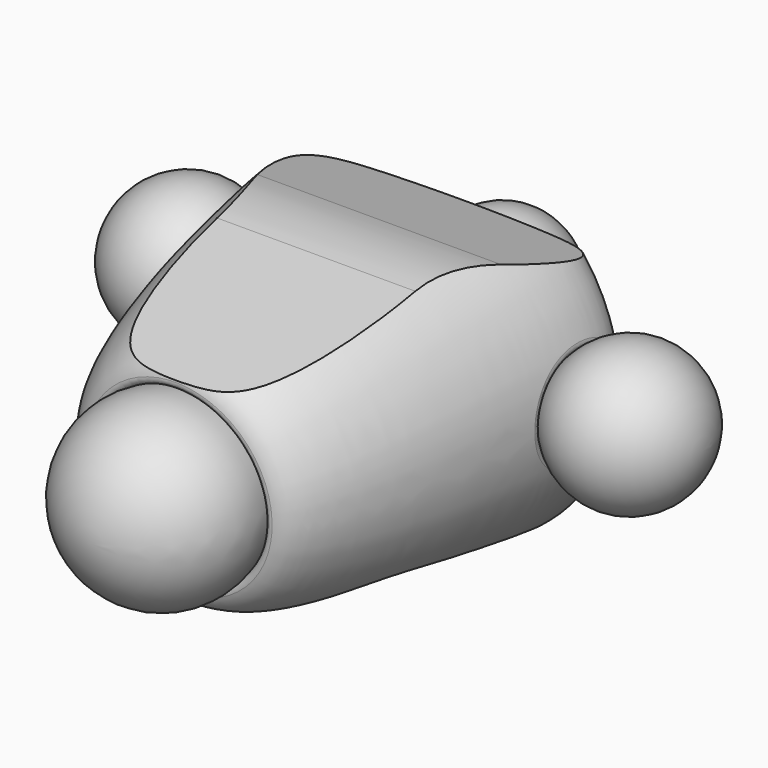
from build123d import *

# Parameters (mm, degrees)
POCKET019_DEPTH         = 147.626796
POCKET019_DEPTH_BACK    = 147.626796
POCKET020_DEPTH         = 147.626796
POCKET020_DEPTH_BACK    = 147.626796
FILLET055_R             = 6
FILLET056_R             = 5
FILLET057_R             = 6
BODY035_PLACEMENT_ANGLE = 2


with BuildPart() as part:
    # Sketch112 → Revolution059 (revolve)
    with BuildSketch(Plane.XY):
        with BuildLine():
            Line((0, 322.018671), (0, 20.371941))
            add(Edge.make_bspline(
                [(0, 322.018671), (53.473918, 322.018671), (104.21536, 317.88647), (156.119411, 306.973022), (140.608635, 195.423989), (125.577646, 106.793844), (90.432373, -0.681763), (55.785058, 20.371941), (0, 20.371941)],
                knots=[0, 0, 0, 0, 0.166667, 0.333333, 0.5, 0.666667, 0.833333, 1, 1, 1, 1], degree=3))
        make_face()
    revolve(axis=Axis((0, 0, 0), (0, 1, 0)))

    # Sketch115 → Pocket019 (cut, two sides)
    with BuildSketch(Plane.YZ) as pocket019_sk:
        with BuildLine():
            Line((0, 76.057571), (164.705364, 107.040153))
            ThreePointArc((230.198439, 103.73248), (197.648298, 109.275045), (164.705364, 107.040153))
            Line((230.198439, 103.73248), (327.121262, 75.140715))
            Line((327.121262, 75.140715), (327.121262, 181.80545))
            Line((327.121262, 181.80545), (0, 181.80545))
            Line((0, 181.80545), (0, 76.057571))
        make_face()
    extrude(amount=-POCKET019_DEPTH, mode=Mode.SUBTRACT)
    extrude(pocket019_sk.sketch, amount=POCKET019_DEPTH_BACK, mode=Mode.SUBTRACT)

    # Sketch116 → Pocket020 (cut, two sides)
    with BuildSketch(Plane.YZ) as pocket020_sk:
        with BuildLine():
            Line((0, -87.995972), (81.156579, -77.887981))
            ThreePointArc((139.258653, -78.991287), (110.247098, -76.360428), (81.156579, -77.887981))
            Line((139.258653, -78.991287), (245.22256, -96.296665))
            ThreePointArc((245.22256, -96.296665), (263.46999, -97.156197), (281.43408, -93.839727))
            Line((281.43408, -93.839727), (341.009521, -75.582008))
            Line((341.009521, -75.582008), (341.009521, -197.003723))
            Line((341.009521, -197.003723), (0, -197.003723))
            Line((0, -197.003723), (0, -87.995972))
        make_face()
    extrude(amount=-POCKET020_DEPTH, mode=Mode.SUBTRACT)
    extrude(pocket020_sk.sketch, amount=POCKET020_DEPTH_BACK, mode=Mode.SUBTRACT)

    # Sketch117 → Groove053 (revolve, cut)
    with BuildSketch(Plane.XY):
        with BuildLine():
            Line((0, 409), (0, 299))
            ThreePointArc((0, 299), (55, 354), (0, 409))
        make_face()
    revolve(axis=Axis((0, 0, 0), (0, 1, 0)), mode=Mode.SUBTRACT)

    # Fillet055
    fillet055_edges = [part.edges().sort_by_distance(p)[0] for p in [
        (-44.297354, 321.400239, 0),
    ]]
    fillet(fillet055_edges, radius=FILLET055_R)

    # Sketch118 → Groove054 (revolve, cut)
    with BuildSketch(Plane.XY):
        with BuildLine():
            Line((0, 75), (0, -75))
            ThreePointArc((0, -75), (75, 0), (0, 75))
        make_face()
    revolve(axis=Axis((0, 0, 0), (0, 1, 0)), mode=Mode.SUBTRACT)

    # Fillet056
    fillet056_edges = [part.edges().sort_by_distance(p)[0] for p in [
        (-73.165063, 16.488588, 0),
    ]]
    fillet(fillet056_edges, radius=FILLET056_R)

    # Sketch119 → Groove055 (revolve, cut)
    with BuildSketch(Plane.XY):
        with BuildLine():
            Line((124, 257), (244, 257))
            ThreePointArc((244, 257), (184, 317), (124, 257))
        make_face()
        with BuildLine():
            Line((-244, 257), (-124, 257))
            ThreePointArc((-124, 257), (-184, 317), (-244, 257))
        make_face()
    revolve(axis=Axis((124, 257, 0), (1, 0, 0)), mode=Mode.SUBTRACT)

    # Fillet057
    fillet057_edges = [part.edges().sort_by_distance(p)[0] for p in [
        (141.270434, 257.078193, -42.120993),
        (141.270434, 257.078193, 42.120993),
        (-142.772349, 213.565694, 3.706998),
        (-141.090705, 298.773575, -3.709562),
    ]]
    fillet(fillet057_edges, radius=FILLET057_R)

    # Sketch117 → Revolution060 (revolve)
    with BuildSketch(Plane.XY):
        with BuildLine():
            Line((0, 409), (0, 299))
            ThreePointArc((0, 299), (55, 354), (0, 409))
        make_face()
    revolve(axis=Axis((0, 0, 0), (0, 1, 0)))

    # Sketch118 → Revolution061 (revolve)
    with BuildSketch(Plane.XY):
        with BuildLine():
            Line((0, 75), (0, -75))
            ThreePointArc((0, -75), (75, 0), (0, 75))
        make_face()
    revolve(axis=Axis((0, 0, 0), (0, 1, 0)))

    # Sketch119 → Revolution062 (revolve)
    with BuildSketch(Plane.XY):
        with BuildLine():
            Line((124, 257), (244, 257))
            ThreePointArc((244, 257), (184, 317), (124, 257))
        make_face()
        with BuildLine():
            Line((-244, 257), (-124, 257))
            ThreePointArc((-124, 257), (-184, 317), (-244, 257))
        make_face()
    revolve(axis=Axis((-244, 257, 0), (1, 0, 0)))


with BuildPart() as part_1:
    # Body035 placement: moved
    add(part.part.moved(Location((0, 1197.018312, 0.388141))).rotate(Axis((0, 1197.018312, 0.388141), (1, 0, 0)), BODY035_PLACEMENT_ANGLE))


solid = part_1.part
